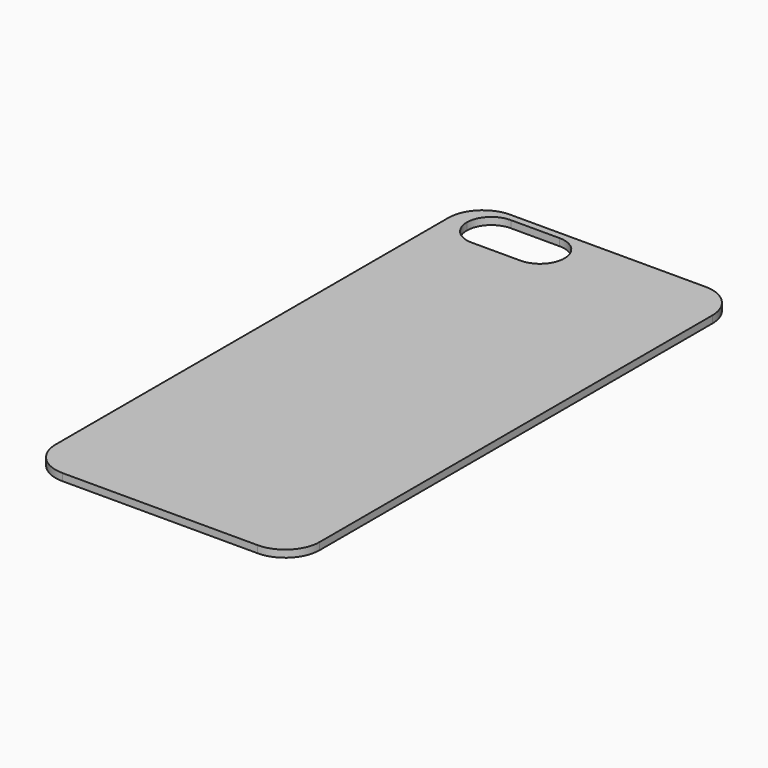
from build123d import *

# Parameters (mm, degrees)
F1_DEPTH = 1.5875


with BuildPart() as f1:
    # F0 (on Top) → F1 (new body)
    with BuildSketch(Plane.XY):
        with BuildLine():
            Line((54.097709, 125.301562), (10.917709, 125.301562))
            ThreePointArc((10.917709, 125.301562), (5.529555, 123.069715), (3.297709, 117.681562))
            Line((3.297709, 117.681562), (3.297709, 9.096562))
            ThreePointArc((3.297709, 9.096562), (5.529555, 3.708408), (10.917709, 1.476562))
            Line((10.917709, 1.476562), (54.097709, 1.476562))
            ThreePointArc((54.097709, 1.476562), (59.485863, 3.708408), (61.717709, 9.096562))
            Line((61.717709, 9.096562), (61.717709, 117.681562))
            ThreePointArc((61.717709, 117.681562), (59.485863, 123.069715), (54.097709, 125.301562))
        make_face()
        with BuildLine():
            ThreePointArc((28.443709, 118.380062), (26.862818, 114.563453), (23.046209, 112.982562))
            Line((23.046209, 112.982562), (12.251209, 112.982562))
            ThreePointArc((12.251209, 112.982562), (8.4346, 114.563453), (6.853709, 118.380062))
            ThreePointArc((6.853709, 118.380062), (8.4346, 122.19667), (12.251209, 123.777562))
            Line((12.251209, 123.777562), (23.046209, 123.777562))
            ThreePointArc((23.046209, 123.777562), (26.862818, 122.19667), (28.443709, 118.380062))
        make_face(mode=Mode.SUBTRACT)
    extrude(amount=F1_DEPTH)


solid = f1.part
